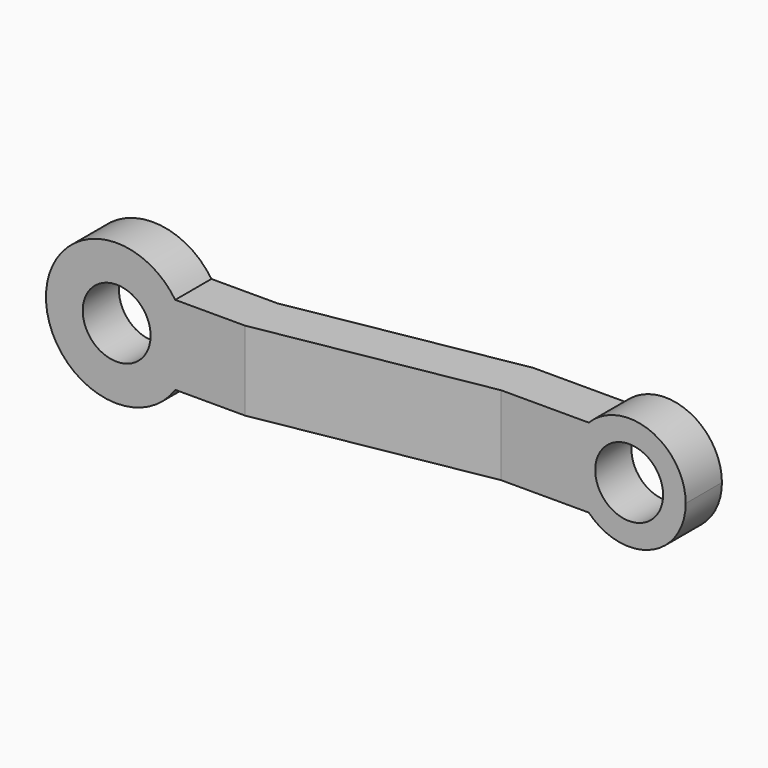
from build123d import *

# Parameters (mm, degrees)
F0_R     = 6
F1_DEPTH = 20
F3_DEPTH = 12.5


with BuildPart() as f1:
    # F0 (on Front) → F1 (new body)
    with BuildSketch(Plane.XZ):
        with BuildLine():
            ThreePointArc((10.356158, -7), (11.952028, -3.660467), (12.5, 0))
            ThreePointArc((12.5, 0), (11.952028, 3.660467), (10.356158, 7))
            ThreePointArc((10.356158, 7), (-12.5, 0), (10.356158, -7))
        make_face()
        Circle(F0_R, mode=Mode.SUBTRACT)
        with BuildLine():
            ThreePointArc((10.356158, 7), (11.952028, 3.660467), (12.5, 0))
            ThreePointArc((12.5, 0), (11.952028, -3.660467), (10.356158, -7))
            Line((10.356158, -7), (77.858572, -7))
            ThreePointArc((77.858572, -7), (75, 0), (77.858572, 7))
            Line((77.858572, 7), (10.356158, 7))
        make_face()
        with BuildLine():
            ThreePointArc((95, 0), (88.78059, 9.257815), (77.858572, 7))
            ThreePointArc((77.858572, 7), (75, 0), (77.858572, -7))
            ThreePointArc((77.858572, -7), (88.78059, -9.257815), (95, 0))
        make_face()
        with Locations((85, 0)):
            Circle(F0_R, mode=Mode.SUBTRACT)
    extrude(amount=F1_DEPTH)

    # F2 (on Top) → F3 (intersect, symmetric)
    with BuildSketch(Plane.XY):
        Polygon((95, -8), (95, 0), (81.679874, 0), (61.679874, 0), (21.980901, -7), (-12.5, -7), (-12.5, -15), (22.68081, -15), (62.379783, -8), (85.50881, -8), align=None)
    extrude(amount=F3_DEPTH, both=True, mode=Mode.INTERSECT)


solid = f1.part
